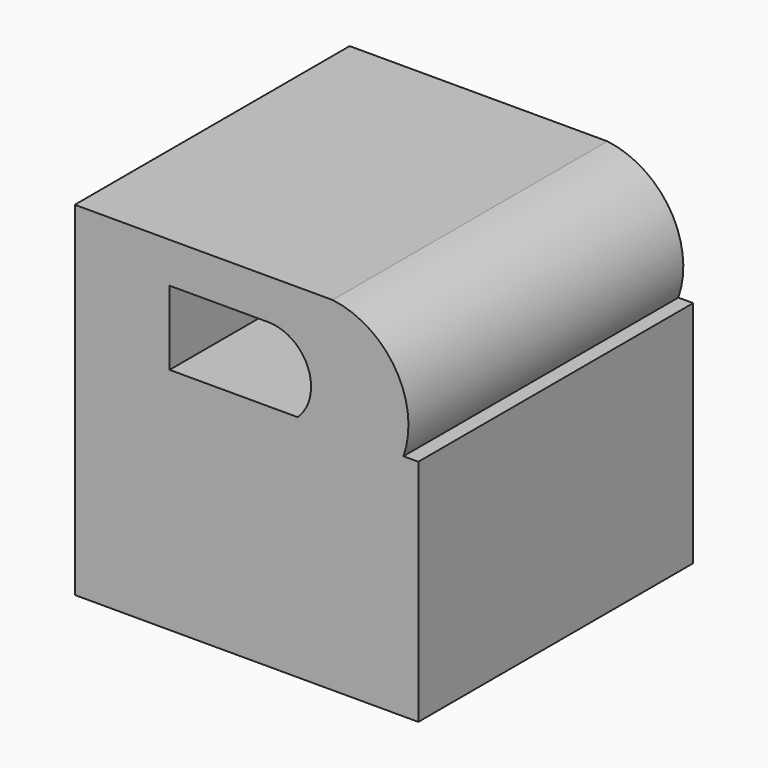
from build123d import *

# Parameters (mm, degrees)
F1_DEPTH = 38.1
F3_DEPTH = 38.1
F5_DEPTH = 25.4
F6_DEPTH = 25.4


with BuildPart() as f1:
    # F0 (on Front) → F1 (new body)
    with BuildSketch(Plane.XZ):
        Polygon((0, 38.099186), (0, 0), (37.85099, 0), (38.1, 38.099186), align=None)
    extrude(amount=F1_DEPTH)

    # F2 (on Front) → F3 (cut)
    with BuildSketch(Plane.XZ):
        with BuildLine():
            Line((10.514395, 33.617546), (10.514395, 24.092546))
            Line((10.514395, 24.092546), (21.440399, 24.092546))
            ThreePointArc((21.440399, 24.092546), (26.202899, 28.855046), (21.440399, 33.617546))
            Line((21.440399, 33.617546), (10.514395, 33.617546))
        make_face()
        with BuildLine():
            Line((10.513219, 14.010213), (10.513219, 4.485213))
            Line((10.513219, 4.485213), (21.435219, 4.485213))
            ThreePointArc((21.435219, 4.485213), (26.197719, 9.247713), (21.435219, 14.010213))
            Line((21.435219, 14.010213), (10.513219, 14.010213))
        make_face()
        with BuildLine():
            Line((38.1, 38.1), (28.575, 38.1))
            ThreePointArc((28.575, 38.1), (36.984506, 28.0415), (27.442695, 19.05))
            ThreePointArc((27.442695, 19.05), (36.984506, 10.0585), (28.575, 0))
            Line((28.575, 0), (38.1, 0))
            Line((38.1, 0), (38.1, 38.1))
        make_face()
    extrude(amount=F3_DEPTH, mode=Mode.SUBTRACT)

    # F4 (on Top) → F5 (join)
    with BuildSketch(Plane.XY):
        Polygon((38.1, 0), (0, 0), (0, -38.1), (38.1, -38.1), (38.1, -30.48), (7.62, -30.48), (7.62, -9.450001), (7.62, -7.62), (38.1, -7.62), align=None)
        Polygon((38.1, -30.48), (38.1, -7.62), (7.62, -7.62), (7.62, -9.450001), (7.62, -30.48), align=None)
    extrude(amount=F5_DEPTH)

    # F4 (on Top) → F6 (join)
    with BuildSketch(Plane.XY):
        Polygon((38.1, 0), (0, 0), (0, -38.1), (38.1, -38.1), (38.1, -30.48), (7.62, -30.48), (7.62, -9.450001), (7.62, -7.62), (38.1, -7.62), align=None)
        Polygon((38.1, -30.48), (38.1, -7.62), (7.62, -7.62), (7.62, -9.450001), (7.62, -30.48), align=None)
    extrude(amount=F6_DEPTH)


solid = f1.part
